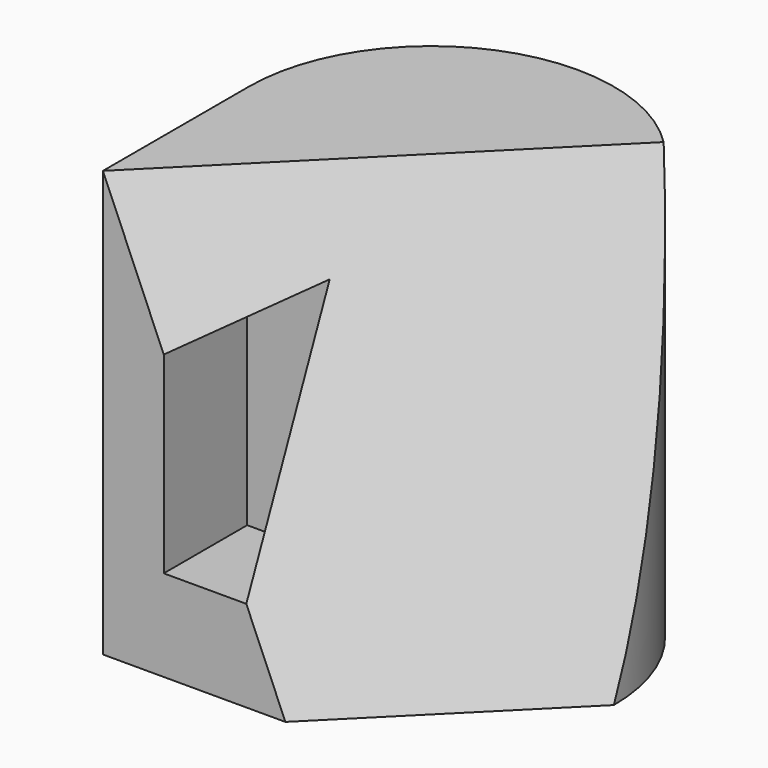
from build123d import *

# Parameters (mm, degrees)
F1_DEPTH = 70
F6_DEPTH = 25


with BuildPart() as f1:
    # F0 (on Top) → F1 (new body)
    with BuildSketch(Plane.XY):
        with BuildLine():
            Line((-30, 0), (-30, -30))
            Line((-30, -30), (0, -30))
            Line((0, -30), (30, 0))
            ThreePointArc((30, 0), (0, 30), (-30, 0))
        make_face()
    extrude(amount=F1_DEPTH)

    # F4: sweep along a path in F3
    with BuildLine(Plane.XY.offset(70)) as f4_path:
        Line((-30, -30), (0, 0))
        Line((0, 0), (21.2132034356, 21.2132034356))
    # F2 (on face) → F4 (sweep, cut)
    with BuildSketch(Plane.XZ.offset(30)):
        Polygon((0, 70), (-30, 70), (0, 0), align=None)
    sweep(path=f4_path.line, mode=Mode.SUBTRACT)

    # F5 (on face) → F6 (cut)
    with BuildSketch(Plane.XZ.offset(30)):
        Polygon((-20, 46.6666666667), (-20, 15), (-6.4285714286, 15), (-6.4285714286, 55), align=None)
    extrude(amount=-F6_DEPTH, mode=Mode.SUBTRACT)

    # F7: sweep along a path in F7_path
    with BuildLine(Plane(origin=(-6.4285714286, -5, 55), x_dir=(0, 1, 0), z_dir=(-1, 0, 0))) as f7_path:
        Line((0, 0), (-7.8571428571, 0))
    # F6_face (on face) → F7 (sweep)
    with BuildSketch(Plane(origin=(-12.9512735327, -5, 32.9974160207), x_dir=(1, 0, 0), z_dir=(0, -1, 0))):
        Polygon((6.5227021041, 22.0025839793), (-7.0487264673, 13.669250646), (-7.0487264673, -17.9974160207), (6.5227021041, -17.9974160207), align=None)
    sweep(path=f7_path.line)


solid = f1.part
